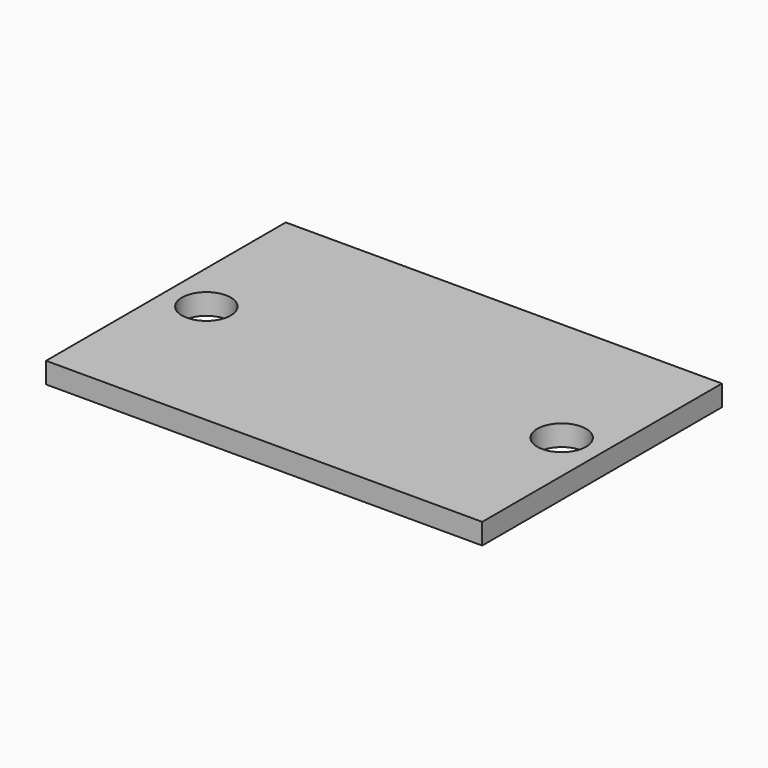
from build123d import *

# Parameters (mm, degrees)
SKETCH_W  = 31.3
SKETCH_H  = 21.5
SKETCH_R  = 1.75
PAD_DEPTH = 1.5


with BuildPart() as part:
    # Sketch → Pad (new body)
    with BuildSketch(Plane.XY):
        Rectangle(SKETCH_W, SKETCH_H)
        with Locations((-12.75, 0)):
            Circle(SKETCH_R, mode=Mode.SUBTRACT)
        with Locations((12.75, 0)):
            Circle(SKETCH_R, mode=Mode.SUBTRACT)
    extrude(amount=PAD_DEPTH)


solid = part.part
